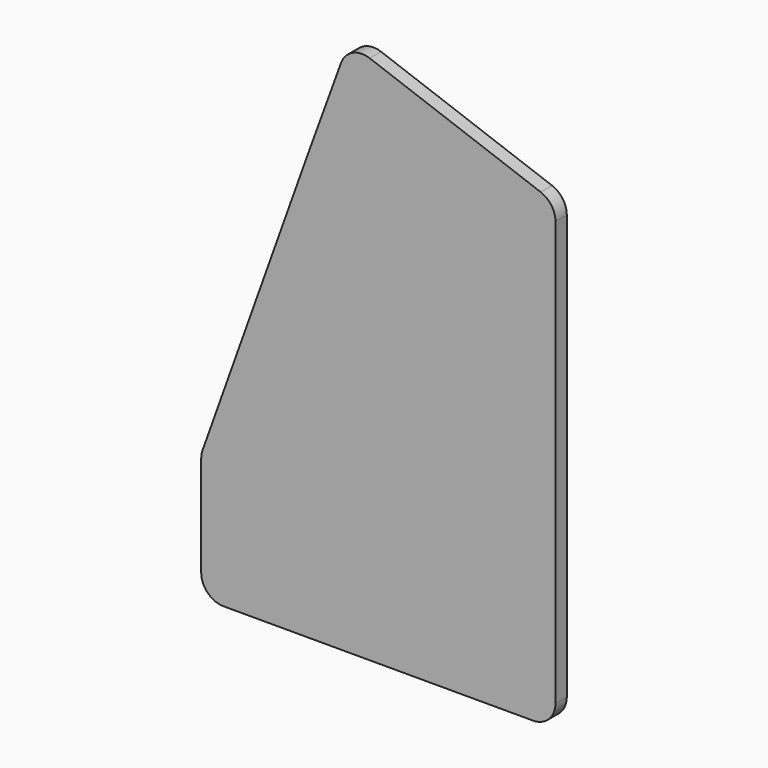
from build123d import *

# Parameters (mm, degrees)
PAD_DEPTH = 19
FILLET_R  = 30


with BuildPart() as part:
    # Sketch001 → Pad (new body)
    with BuildSketch(Plane.XZ):
        Polygon((-39.638222, -29.378442), (-39.638222, 140.621558), (101.719132, 536.468218), (158.152455, 691.5175), (435.361778, 590.621558), (435.361778, -29.378442), align=None)
    extrude(amount=-PAD_DEPTH)

    # Fillet
    fillet_edges = [part.edges().sort_by_distance(p)[0] for p in [
        (-39.638222, 9.5, 140.621558),
        (-39.638222, 9.5, -29.378442),
        (158.152455, 9.5, 691.5175),
        (435.361778, 9.5, 590.621558),
        (435.361778, 9.5, -29.378442),
    ]]
    fillet(fillet_edges, radius=FILLET_R)


solid = part.part
